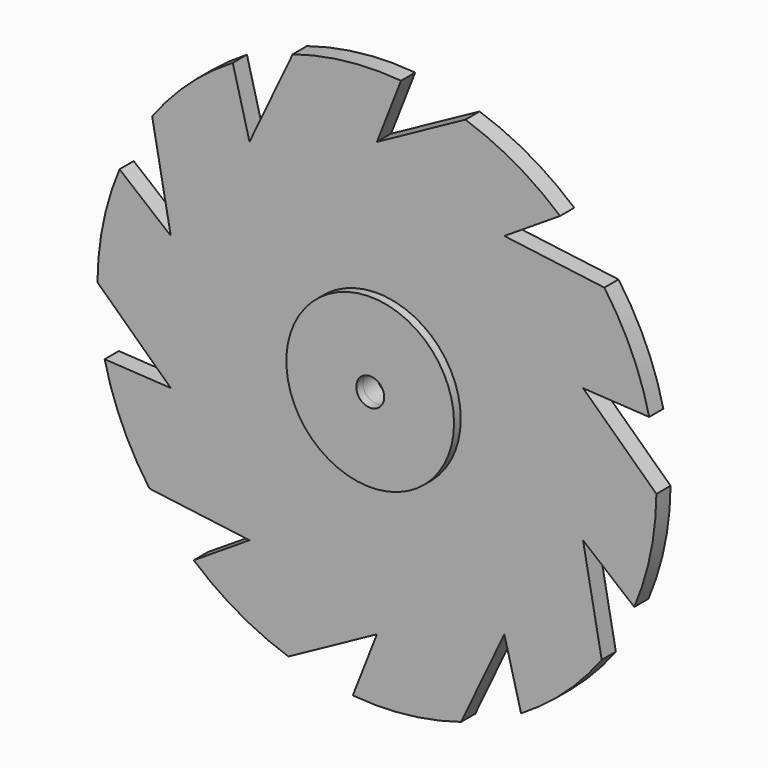
from build123d import *

# Parameters (mm, degrees)
F0_R     = 50
F1_DEPTH = 3.17
F2_R     = 2.5
F3_DEPTH = 25
F4_R     = 15
F4_R_2   = 2.5
F5_DEPTH = 1.5
F7_DEPTH = 25


with BuildPart() as f1:
    # F0 (on Front) → F1 (new body)
    with BuildSketch(Plane.XZ):
        Circle(F0_R)
    extrude(amount=F1_DEPTH)

    # F2 (on face) → F3 (cut)
    with BuildSketch(Plane.XZ.offset(3.17)):
        Circle(F2_R)
    extrude(amount=-F3_DEPTH, mode=Mode.SUBTRACT)

    # F6 (on face) → F7 (cut)
    with BuildSketch(Plane.XZ.offset(3.17)):
        with BuildLine():
            Line((-22.7931910082, 31.3721360136), (-15.0621287485, 47.6773769996))
            ThreePointArc((-15.0621287485, 47.6773769996), (-20.5685569707, 45.5733964517), (-25.7891029355, 42.8359915233))
            Line((-25.7891029355, 42.8359915233), (-22.7931910082, 31.3721360136))
        make_face()
        with BuildLine():
            Line((0, 38.7780927122), (15.8385409393, 47.4251053864))
            ThreePointArc((15.8385409393, 47.4251053864), (10.1470581921, 48.9595466691), (4.3145415402, 49.8134994886))
            Line((4.3145415402, 49.8134994886), (0, 38.7780927122))
        make_face()
        with BuildLine():
            ThreePointArc((40.6894263206, 29.0580554357), (36.9868420114, 33.6448141327), (32.7701777935, 37.7639437478))
            Line((32.7701777935, 37.7639437478), (22.7931910082, 31.3721360136))
            Line((22.7931910082, 31.3721360136), (40.6894263206, 29.0580554357))
        make_face()
        with BuildLine():
            ThreePointArc((50, 0), (49.6761310759, 5.6817252069), (48.7087199469, 11.2898450446))
            Line((48.7087199469, 11.2898450446), (36.8801577634, 11.9830896575))
            Line((36.8801577634, 11.9830896575), (49.9983338301, -0.4081840445))
            ThreePointArc((49.9983338301, -0.4081840445), (49.9995834558, -0.2040937225), (50, 0))
        make_face()
        with BuildLine():
            ThreePointArc((40.2095771974, -29.7185110934), (43.4276824703, -24.7797577725), (46.0421866292, -19.4965907379))
            Line((46.0421866292, -19.4965907379), (36.8801577634, -11.9830896575))
            Line((36.8801577634, -11.9830896575), (40.2095771974, -29.7185110934))
        make_face()
        with BuildLine():
            ThreePointArc((15.0621287485, -47.6773769996), (20.5685569707, -45.5733964517), (25.7891029355, -42.8359915233))
            Line((25.7891029355, -42.8359915233), (22.7931910082, -31.3721360136))
            Line((22.7931910082, -31.3721360136), (15.0621287485, -47.6773769996))
        make_face()
        with BuildLine():
            ThreePointArc((-15.8385409393, -47.4251053864), (-10.1470581921, -48.9595466691), (-4.3145415402, -49.8134994886))
            Line((-4.3145415402, -49.8134994886), (0, -38.7780927122))
            Line((0, -38.7780927122), (-15.8385409393, -47.4251053864))
        make_face()
        with BuildLine():
            Line((-22.7931910082, -31.3721360136), (-40.6894263206, -29.0580554357))
            ThreePointArc((-40.6894263206, -29.0580554357), (-36.9868420114, -33.6448141327), (-32.7701777935, -37.7639437478))
            Line((-32.7701777935, -37.7639437478), (-22.7931910082, -31.3721360136))
        make_face()
        with BuildLine():
            Line((-36.8801577634, -11.9830896575), (-49.9983338301, 0.4081840445))
            ThreePointArc((-49.9983338301, 0.4081840445), (-49.6989093188, -5.4789061428), (-48.7087199469, -11.2898450446))
            Line((-48.7087199469, -11.2898450446), (-36.8801577634, -11.9830896575))
        make_face()
        with BuildLine():
            Line((-36.8801577634, 11.9830896575), (-40.2095771974, 29.7185110934))
            ThreePointArc((-40.2095771974, 29.7185110934), (-43.4276824703, 24.7797577725), (-46.0421866292, 19.4965907379))
            Line((-46.0421866292, 19.4965907379), (-36.8801577634, 11.9830896575))
        make_face()
    extrude(amount=-F7_DEPTH, mode=Mode.SUBTRACT)


with BuildPart() as f5:
    # F4 (on face) → F5 (new body)
    with BuildSketch(Plane.XZ.offset(3.17)):
        Circle(F4_R)
        Circle(F4_R_2, mode=Mode.SUBTRACT)
    extrude(amount=F5_DEPTH)


solid = Compound([f1.part, f5.part])
